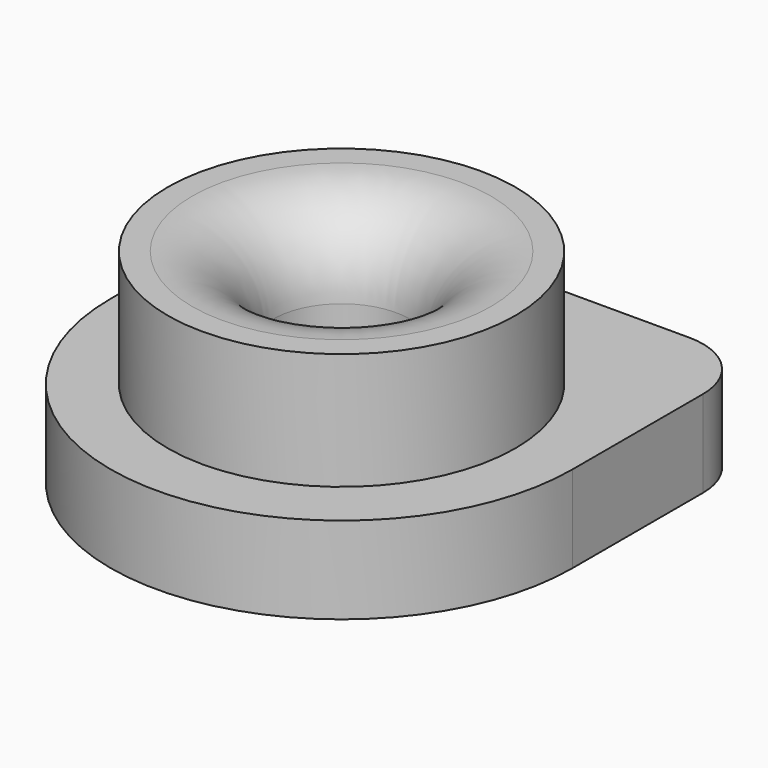
from build123d import *

# Parameters (mm, degrees)
F1_DEPTH = 4.064
F2_DEPTH = 9.525
F3_R     = 3.81


with BuildPart() as f1:
    # F0 (on Top) → F1 (new body)
    with BuildSketch(Plane.XY):
        with BuildLine():
            Line((-8.128, 0), (-10.795, 0))
            ThreePointArc((-10.795, 0), (0, -10.795), (10.795, 0))
            Line((10.795, 0), (8.128, 0))
            ThreePointArc((8.128, 0), (0, -8.128), (-8.128, 0))
        make_face()
        with BuildLine():
            ThreePointArc((0, 10.795), (-7.633218, 7.633218), (-10.795, 0))
            Line((-10.795, 0), (-8.128, 0))
            ThreePointArc((-8.128, 0), (0, 8.128), (8.128, 0))
            Line((8.128, 0), (10.795, 0))
            ThreePointArc((10.795, 0), (7.633218, 7.633218), (0, 10.795))
        make_face()
        with BuildLine():
            Line((-10.795, 7.62), (-10.795, 0))
            ThreePointArc((-10.795, 0), (-7.633218, 7.633218), (0, 10.795))
            Line((0, 10.795), (-7.62, 10.795))
            ThreePointArc((-7.62, 10.795), (-9.865064, 9.865064), (-10.795, 7.62))
        make_face()
        with BuildLine():
            ThreePointArc((0, 10.795), (7.633218, 7.633218), (10.795, 0))
            Line((10.795, 0), (10.795, 7.62))
            ThreePointArc((10.795, 7.62), (9.865064, 9.865064), (7.62, 10.795))
            Line((7.62, 10.795), (0, 10.795))
        make_face()
    extrude(amount=F1_DEPTH)

    # F0 (on Top) → F2 (join)
    with BuildSketch(Plane.XY):
        with BuildLine():
            ThreePointArc((8.128, 0), (0, 8.128), (-8.128, 0))
            Line((-8.128, 0), (-3.175, 0))
            ThreePointArc((-3.175, 0), (0, 3.175), (3.175, 0))
            Line((3.175, 0), (8.128, 0))
        make_face()
        with BuildLine():
            Line((-3.175, 0), (-8.128, 0))
            ThreePointArc((-8.128, 0), (0, -8.128), (8.128, 0))
            Line((8.128, 0), (3.175, 0))
            ThreePointArc((3.175, 0), (0, -3.175), (-3.175, 0))
        make_face()
    extrude(amount=F2_DEPTH)

    # F3
    f3_edges = [f1.edges().sort_by_distance(p)[0] for p in [
        (-3.175, 0, 9.525),
    ]]
    fillet(f3_edges, radius=F3_R)


solid = f1.part
